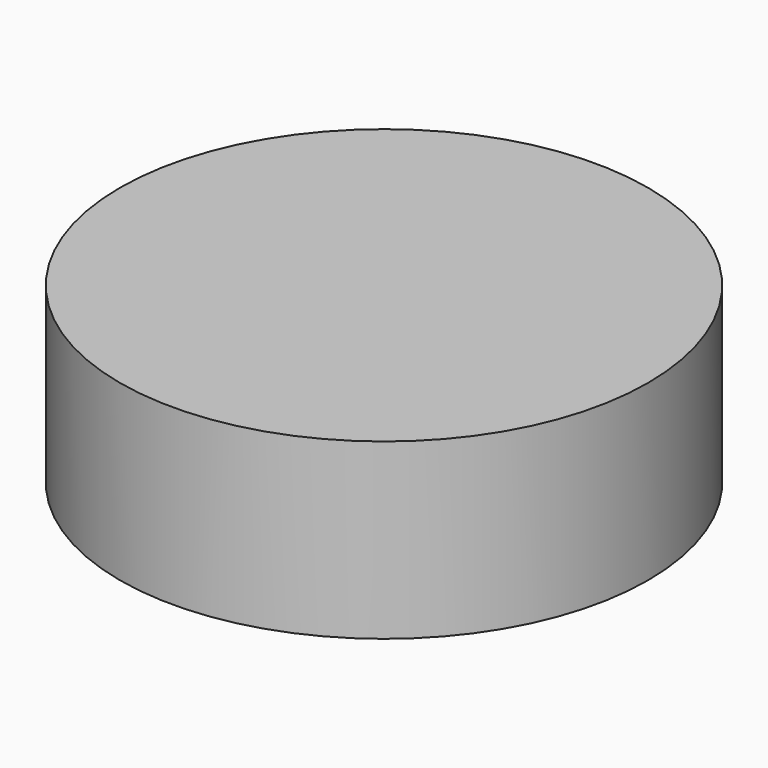
from build123d import *

# Parameters (mm, degrees)
SKETCH_R  = 38
PAD_DEPTH = 25


with BuildPart() as part:
    # Sketch → Pad (new body)
    with BuildSketch(Plane.XY):
        Circle(SKETCH_R)
    extrude(amount=PAD_DEPTH)


solid = part.part
